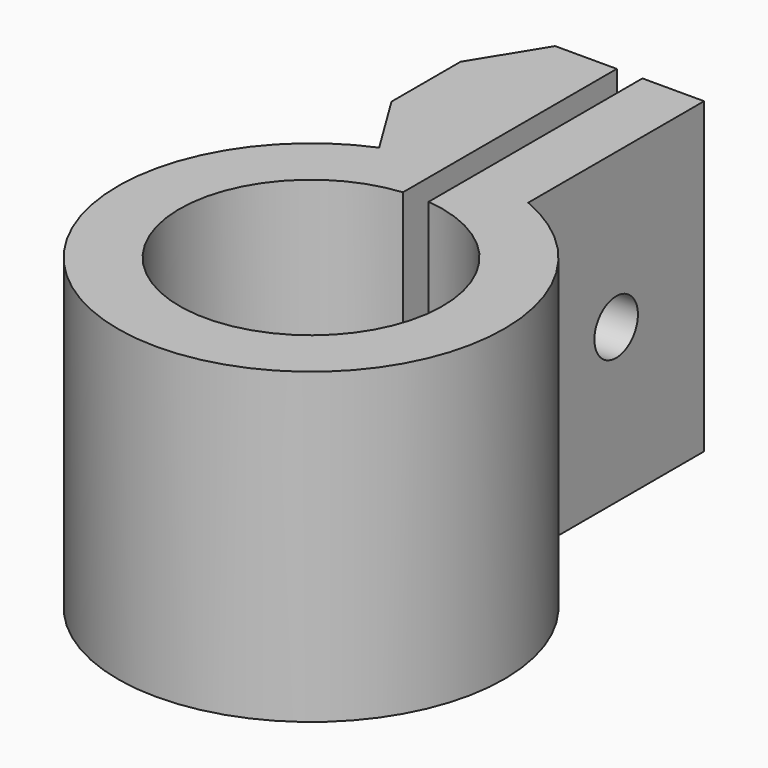
from build123d import *

# Parameters (mm, degrees)
F1_DEPTH = 30
F3_DEPTH = 4.5
F4_R     = 2.646799
F5_DEPTH = 25.551


with BuildPart() as f1:
    # F0 (on Top) → F1 (new body)
    with BuildSketch(Plane.XY):
        with BuildLine():
            ThreePointArc((1.25, 12.738819), (0, -12.8), (-1.25, 12.738819))
            Line((-1.25, 12.738819), (-1.25, 38.745821))
            Line((-1.25, 38.745821), (-7.25, 38.745821))
            Line((-7.25, 38.745821), (-7.25, 17.345821))
            ThreePointArc((-7.25, 17.345821), (0, -18.8), (7.25, 17.345821))
            Line((7.25, 17.345821), (7.25, 38.738819))
            Line((7.25, 38.738819), (1.25, 38.738819))
            Line((1.25, 38.738819), (1.25, 12.738819))
        make_face()
        Polygon((-7.25, 17.345821), (-7.25, 38.745821), (-11.25, 32.245821), (-11.25, 23.845821), align=None)
    extrude(amount=F1_DEPTH)

    # F2 (on face) → F3 (cut)
    with BuildSketch(Plane(origin=(-11.25, 0, 0), x_dir=(0, -1, 0), z_dir=(-1, 0, 0))):
        Polygon((-32.195821, 17.396004), (-32.195821, 12.603996), (-28.045821, 10.207993), (-23.895821, 12.603996), (-23.895821, 17.396004), (-28.045821, 19.792007), align=None)
    extrude(amount=-F3_DEPTH, mode=Mode.SUBTRACT)

    # F4 (on face) → F5 (cut, through all)
    with BuildSketch(Plane(origin=(-6.75, 0, 0), x_dir=(0, -1, 0), z_dir=(-1, 0, 0))):
        with Locations((-28.045821, 15)):
            Circle(F4_R)
    extrude(amount=-F5_DEPTH, mode=Mode.SUBTRACT)


solid = f1.part
